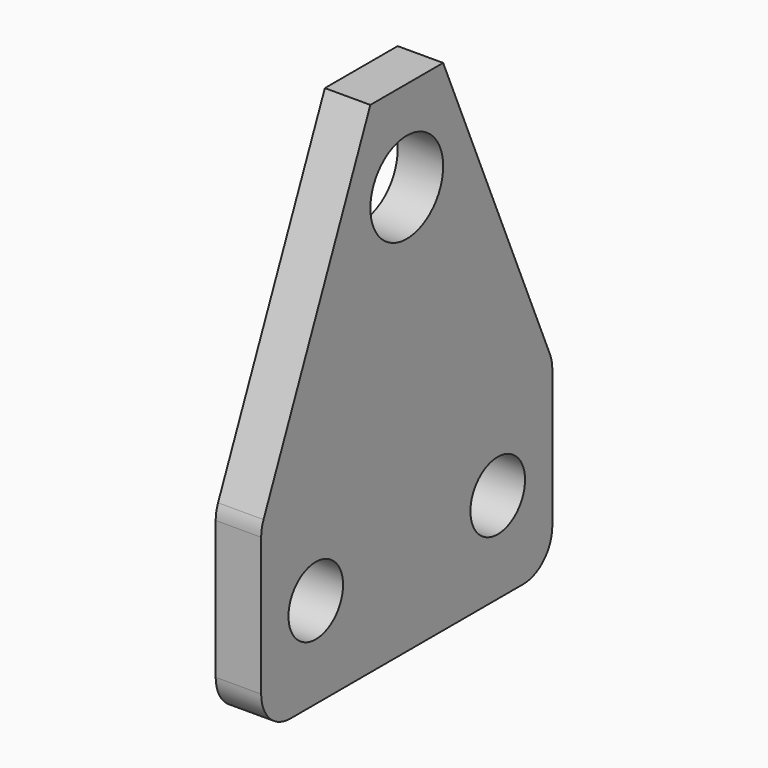
from build123d import *

# Parameters (mm, degrees)
F0_W     = 50.8
F0_H     = 25.4
F0_R     = 4.7625
F0_R_2   = 6.35
F1_DEPTH = 6.35
F2_R     = 5.08


with BuildPart() as f1:
    # F0 (on Right) → F1 (new body)
    with BuildSketch(Plane.YZ):
        Rectangle(F0_W, F0_H)
        with Locations((-15.875, 0)):
            Circle(F0_R, mode=Mode.SUBTRACT)
        with Locations((15.875, 0)):
            Circle(F0_R, mode=Mode.SUBTRACT)
        Polygon((-25.4, 12.7), (25.4, 12.7), (6.35, 57.0410092352), (-6.35, 57.0410092352), align=None)
        with Locations((0, 44.3410092352)):
            Circle(F0_R_2, mode=Mode.SUBTRACT)
    extrude(amount=F1_DEPTH)

    # F2
    f2_edges = [f1.edges().sort_by_distance(p)[0] for p in [
        (3.175, -25.4, -12.7),
        (3.175, 25.4, -12.7),
        (3.175, 25.4, 12.7),
        (3.175, -25.4, 12.7),
    ]]
    fillet(f2_edges, radius=F2_R)


solid = f1.part
